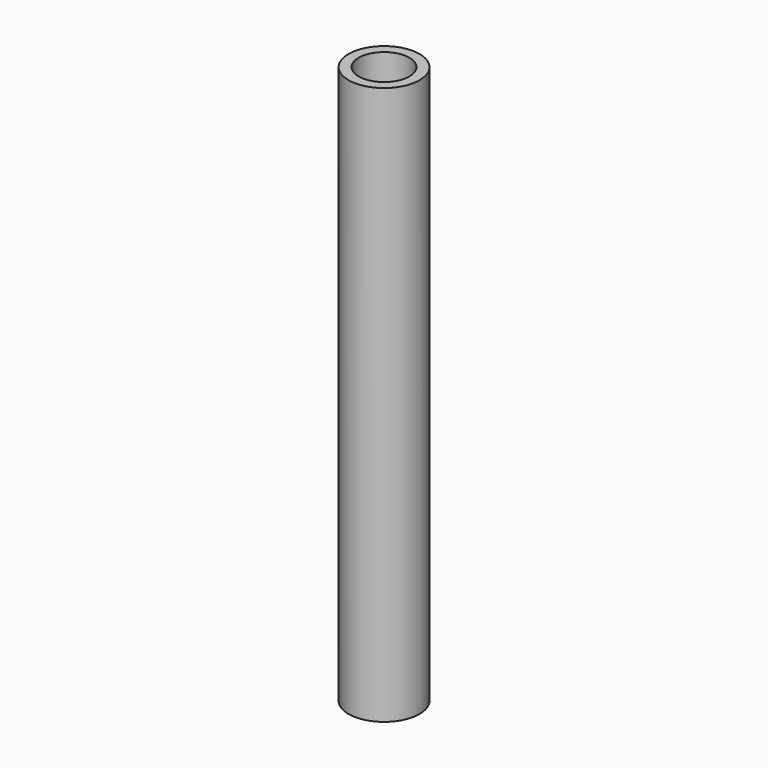
from build123d import *

# Parameters (mm, degrees)
F0_R     = 1.2
F1_DEPTH = 3
F2_R     = 2.8
F2_R_2   = 2
F3_DEPTH = 44


with BuildPart() as f1:
    # F0 (on Top) → F1 (new body)
    with BuildSketch(Plane.XY):
        Polygon((1.95, -1.125833), (1.95, 1.125833), (0, 2.251666), (-1.95, 1.125833), (-1.95, -1.125833), (0, -2.251666), align=None)
        Circle(F0_R, mode=Mode.SUBTRACT)
    extrude(amount=F1_DEPTH)


with BuildPart() as f3:
    # F2 (on Top) → F3 (new body)
    with BuildSketch(Plane.XY):
        Circle(F2_R)
        Circle(F2_R_2, mode=Mode.SUBTRACT)
    extrude(amount=F3_DEPTH)


solid = Compound([f1.part, f3.part])
